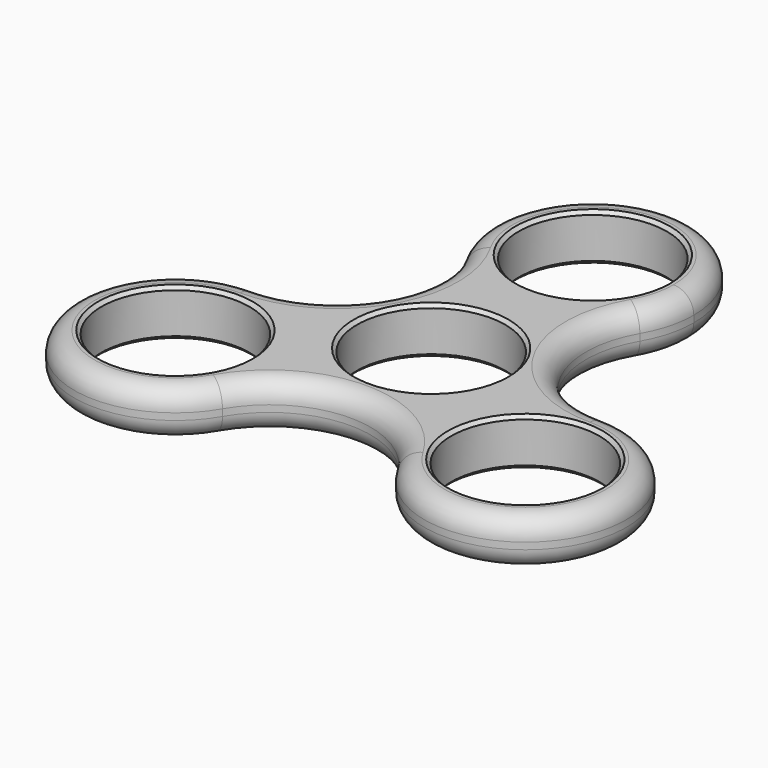
from build123d import *

# Parameters (mm, degrees)
F1_R     = 11
F2_DEPTH = 7
F3_R     = 3
F4_SIZE  = 0.5


with BuildPart() as f2:
    # F1 (on Top) → F2 (new body)
    with BuildSketch(Plane.XY):
        with BuildLine():
            ThreePointArc((-10.9807621135, -15), (-15.3741603957, -4.3933982822), (-25.9807621135, 0))
            ThreePointArc((-25.9807621135, 0), (-38.9711431703, -22.5), (-12.9903810568, -22.5))
            ThreePointArc((-12.9903810568, -22.5), (-11.4918747192, -18.8822856765), (-10.9807621135, -15))
        make_face()
        with Locations((-25.9807621135, -15)):
            Circle(F1_R, mode=Mode.SUBTRACT)
        with BuildLine():
            ThreePointArc((40.9807621135, -15), (36.5873638313, -4.3933982822), (25.9807621135, 0))
            ThreePointArc((25.9807621135, 0), (12.9903810568, -7.5), (12.9903810568, -22.5))
            ThreePointArc((12.9903810568, -22.5), (29.8630477901, -29.4888873943), (40.9807621135, -15))
        make_face()
        with Locations((25.9807621135, -15)):
            Circle(F1_R, mode=Mode.SUBTRACT)
        with BuildLine():
            ThreePointArc((12.9903810568, 22.5), (0, 15), (-12.9903810568, 22.5))
            ThreePointArc((-12.9903810568, 22.5), (-12.9903810568, 7.5), (-25.9807621135, 0))
            ThreePointArc((-25.9807621135, 0), (-15.3741603957, -4.3933982822), (-10.9807621135, -15))
            ThreePointArc((-10.9807621135, -15), (-11.4918747192, -18.8822856765), (-12.9903810568, -22.5))
            ThreePointArc((-12.9903810568, -22.5), (0, -15), (12.9903810568, -22.5))
            ThreePointArc((12.9903810568, -22.5), (12.9903810568, -7.5), (25.9807621135, 0))
            ThreePointArc((25.9807621135, 0), (12.9903810568, 7.5), (12.9903810568, 22.5))
        make_face()
        Circle(F1_R, mode=Mode.SUBTRACT)
        with BuildLine():
            ThreePointArc((12.9903810568, 22.5), (14.4888873943, 26.1177143235), (15, 30))
            ThreePointArc((15, 30), (-3.8822856765, 44.4888873943), (-12.9903810568, 22.5))
            ThreePointArc((-12.9903810568, 22.5), (0, 15), (12.9903810568, 22.5))
        make_face()
        with Locations((0, 30)):
            Circle(F1_R, mode=Mode.SUBTRACT)
    extrude(amount=F2_DEPTH)

    # F3
    f3_edges = [f2.edges().sort_by_distance(p)[0] for p in [
        (0, -15, 7),
        (-38.971143, -22.5, 7),
        (0, -15, 0),
    ]]
    fillet(f3_edges, radius=F3_R)

    # F4
    f4_edges = [f2.edges().sort_by_distance(p)[0] for p in [
        (11, 0, 3.5),
        (-11, 0, 0),
        (-11, 0, 7),
        (11, 30, 3.5),
        (-11, 30, 0),
        (-11, 30, 7),
        (36.980762, -15, 3.5),
        (14.980762, -15, 0),
        (14.980762, -15, 7),
        (-14.980762, -15, 3.5),
        (-36.980762, -15, 0),
        (-36.980762, -15, 7),
    ]]
    chamfer(f4_edges, length=F4_SIZE)


solid = f2.part
